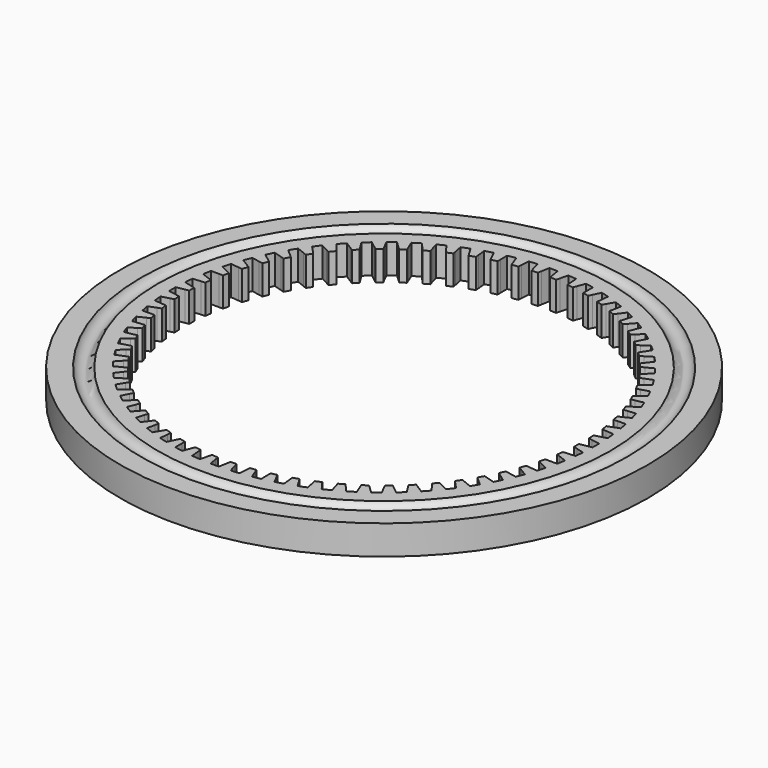
from build123d import *

# Parameters (mm, degrees)
F0_R     = 45
F1_DEPTH = 5
F2_W     = 3
F2_H     = 10
F2_R     = 1.5


with BuildPart() as f1:
    # F0 (on Top) → F1 (new body)
    with BuildSketch(Plane.XY):
        Circle(F0_R)
        with BuildLine():
            Line((0.701709, 36.093179), (0.942478, 34.727713))
            Line((0.942478, 34.727713), (1.056045, 34.083644))
            ThreePointArc((1.056045, 34.083644), (1.574856, 34.063614), (2.093302, 34.035688))
            Line((2.093302, 34.035688), (2.265812, 34.666532))
            Line((2.265812, 34.666532), (2.631543, 36.003958))
            ThreePointArc((2.631543, 36.003958), (3.330888, 35.946004), (4.028974, 35.874467))
            Line((4.028974, 35.874467), (4.142726, 34.49261))
            Line((4.142726, 34.49261), (4.196382, 33.840809))
            ThreePointArc((4.196382, 33.840809), (4.711132, 33.772996), (5.22479, 33.697353))
            Line((5.22479, 33.697353), (5.45477, 34.309588))
            Line((5.45477, 34.309588), (5.942343, 35.607563))
            ThreePointArc((5.942343, 35.607563), (6.633358, 35.485329), (7.321866, 35.349686))
            Line((7.321866, 35.349686), (7.307631, 33.963228))
            Line((7.307631, 33.963228), (7.300917, 33.309257))
            ThreePointArc((7.300917, 33.309257), (7.807214, 33.194238), (8.311701, 33.071523))
            Line((8.311701, 33.071523), (8.597191, 33.659927))
            Line((8.597191, 33.659927), (9.202445, 34.907377))
            ThreePointArc((9.202445, 34.907377), (9.879234, 34.721906), (10.552289, 34.523314))
            Line((10.552289, 34.523314), (10.410189, 33.144084))
            Line((10.410189, 33.144084), (10.343163, 32.493522))
            ThreePointArc((10.343163, 32.493522), (10.836687, 32.332278), (11.3277, 32.163539))
            Line((11.3277, 32.163539), (11.666263, 32.723091))
            Line((11.666263, 32.723091), (12.384036, 33.909374))
            ThreePointArc((12.384036, 33.909374), (13.040824, 33.662247), (13.692685, 33.402401))
            Line((13.692685, 33.402401), (13.423931, 32.042166))
            Line((13.423931, 32.042166), (13.297165, 31.400564))
            ThreePointArc((13.297165, 31.400564), (13.773706, 31.194471), (14.247055, 30.981146))
            Line((14.247055, 30.981146), (14.635802, 31.507073))
            Line((14.635802, 31.507073), (15.45997, 32.622068))
            ThreePointArc((15.45997, 32.622068), (16.091155, 32.315395), (16.716259, 31.996511))
            Line((16.716259, 31.996511), (16.323145, 30.666876))
            Line((16.323145, 30.666876), (16.13772, 30.039707))
            ThreePointArc((16.13772, 30.039707), (16.593213, 29.790524), (17.044859, 29.534434))
            Line((17.044859, 29.534434), (17.480474, 30.022248))
            Line((17.480474, 30.022248), (18.404005, 31.056442))
            ThreePointArc((18.404005, 31.056442), (19.004201, 30.692839), (19.597216, 30.317637))
            Line((19.597216, 30.317637), (19.083096, 29.029946))
            Line((19.083096, 29.029946), (18.840594, 28.422562))
            ThreePointArc((18.840594, 28.422562), (19.271152, 28.132414), (19.697242, 27.835744))
            Line((19.697242, 27.835744), (20.176009, 28.281283))
            Line((20.176009, 28.281283), (21.191024, 29.225853))
            ThreePointArc((21.191024, 29.225853), (21.75511, 28.808422), (22.310976, 28.380105))
            Line((22.310976, 28.380105), (21.680236, 27.145344))
            Line((21.680236, 27.145344), (21.382726, 26.562926))
            ThreePointArc((21.382726, 26.562926), (21.784676, 26.234288), (22.181576, 25.899569))
            Line((22.181576, 25.899569), (22.69941, 26.299033))
            Line((22.69941, 26.299033), (23.797248, 27.14592))
            ThreePointArc((23.797248, 27.14592), (24.320413, 26.678222), (24.834387, 26.200443))
            Line((24.834387, 26.200443), (24.092409, 25.029147))
            Line((24.092409, 25.029147), (23.742429, 24.476664))
            ThreePointArc((23.742429, 24.476664), (24.112341, 24.112341), (24.476664, 23.742429))
            Line((24.476664, 23.742429), (25.029147, 24.092409))
            Line((25.029147, 24.092409), (26.200443, 24.834387))
            ThreePointArc((26.200443, 24.834387), (26.678222, 24.320413), (27.14592, 23.797248))
            Line((27.14592, 23.797248), (26.299033, 22.69941))
            Line((26.299033, 22.69941), (25.899569, 22.181576))
            ThreePointArc((25.899569, 22.181576), (26.234288, 21.784676), (26.562926, 21.382726))
            Line((26.562926, 21.382726), (27.145344, 21.680236))
            Line((27.145344, 21.680236), (28.380105, 22.310976))
            ThreePointArc((28.380105, 22.310976), (28.808422, 21.75511), (29.225853, 21.191024))
            Line((29.225853, 21.191024), (28.281283, 20.176009))
            Line((28.281283, 20.176009), (27.835744, 19.697242))
            ThreePointArc((27.835744, 19.697242), (28.132414, 19.271152), (28.422562, 18.840594))
            Line((28.422562, 18.840594), (29.029946, 19.083096))
            Line((29.029946, 19.083096), (30.317637, 19.597216))
            ThreePointArc((30.317637, 19.597216), (30.692839, 19.004201), (31.056442, 18.404005))
            Line((31.056442, 18.404005), (30.022248, 17.480474))
            Line((30.022248, 17.480474), (29.534434, 17.044859))
            ThreePointArc((29.534434, 17.044859), (29.790524, 16.593213), (30.039707, 16.13772))
            Line((30.039707, 16.13772), (30.666876, 16.323145))
            Line((30.666876, 16.323145), (31.996511, 16.716259))
            ThreePointArc((31.996511, 16.716259), (32.315395, 16.091155), (32.622068, 15.45997))
            Line((32.622068, 15.45997), (31.507073, 14.635802))
            Line((31.507073, 14.635802), (30.981146, 14.247055))
            ThreePointArc((30.981146, 14.247055), (31.194471, 13.773706), (31.400564, 13.297165))
            Line((31.400564, 13.297165), (32.042166, 13.423931))
            Line((32.042166, 13.423931), (33.402401, 13.692685))
            ThreePointArc((33.402401, 13.692685), (33.662247, 13.040824), (33.909374, 12.384036))
            Line((33.909374, 12.384036), (32.723091, 11.666263))
            Line((32.723091, 11.666263), (32.163539, 11.3277))
            ThreePointArc((32.163539, 11.3277), (32.332278, 10.836687), (32.493522, 10.343163))
            Line((32.493522, 10.343163), (33.144084, 10.410189))
            Line((33.144084, 10.410189), (34.523314, 10.552289))
            ThreePointArc((34.523314, 10.552289), (34.721906, 9.879234), (34.907377, 9.202445))
            Line((34.907377, 9.202445), (33.659927, 8.597191))
            Line((33.659927, 8.597191), (33.071523, 8.311701))
            ThreePointArc((33.071523, 8.311701), (33.194238, 7.807214), (33.309257, 7.300917))
            Line((33.309257, 7.300917), (33.963228, 7.307631))
            Line((33.963228, 7.307631), (35.349686, 7.321866))
            ThreePointArc((35.349686, 7.321866), (35.485329, 6.633358), (35.607563, 5.942343))
            Line((35.607563, 5.942343), (34.309588, 5.45477))
            Line((34.309588, 5.45477), (33.697353, 5.22479))
            ThreePointArc((33.697353, 5.22479), (33.772996, 4.711132), (33.840809, 4.196382))
            Line((33.840809, 4.196382), (34.49261, 4.142726))
            Line((34.49261, 4.142726), (35.874467, 4.028974))
            ThreePointArc((35.874467, 4.028974), (35.946004, 3.330888), (36.003958, 2.631543))
            Line((36.003958, 2.631543), (34.666532, 2.265812))
            Line((34.666532, 2.265812), (34.035688, 2.093302))
            ThreePointArc((34.035688, 2.093302), (34.063614, 1.574856), (34.083644, 1.056045))
            Line((34.083644, 1.056045), (34.727713, 0.942478))
            Line((34.727713, 0.942478), (36.093179, 0.701709))
            ThreePointArc((36.093179, 0.701709), (36.1, 0), (36.093179, -0.701709))
            Line((36.093179, -0.701709), (34.727713, -0.942478))
            Line((34.727713, -0.942478), (34.083644, -1.056045))
            ThreePointArc((34.083644, -1.056045), (34.063614, -1.574856), (34.035688, -2.093302))
            Line((34.035688, -2.093302), (34.666532, -2.265812))
            Line((34.666532, -2.265812), (36.003958, -2.631543))
            ThreePointArc((36.003958, -2.631543), (35.946004, -3.330888), (35.874467, -4.028974))
            Line((35.874467, -4.028974), (34.49261, -4.142726))
            Line((34.49261, -4.142726), (33.840809, -4.196382))
            ThreePointArc((33.840809, -4.196382), (33.772996, -4.711132), (33.697353, -5.22479))
            Line((33.697353, -5.22479), (34.309588, -5.45477))
            Line((34.309588, -5.45477), (35.607563, -5.942343))
            ThreePointArc((35.607563, -5.942343), (35.485329, -6.633358), (35.349686, -7.321866))
            Line((35.349686, -7.321866), (33.963228, -7.307631))
            Line((33.963228, -7.307631), (33.309257, -7.300917))
            ThreePointArc((33.309257, -7.300917), (33.194238, -7.807214), (33.071523, -8.311701))
            Line((33.071523, -8.311701), (33.659927, -8.597191))
            Line((33.659927, -8.597191), (34.907377, -9.202445))
            ThreePointArc((34.907377, -9.202445), (34.721906, -9.879234), (34.523314, -10.552289))
            Line((34.523314, -10.552289), (33.144084, -10.410189))
            Line((33.144084, -10.410189), (32.493522, -10.343163))
            ThreePointArc((32.493522, -10.343163), (32.332278, -10.836687), (32.163539, -11.3277))
            Line((32.163539, -11.3277), (32.723091, -11.666263))
            Line((32.723091, -11.666263), (33.909374, -12.384036))
            ThreePointArc((33.909374, -12.384036), (33.662247, -13.040824), (33.402401, -13.692685))
            Line((33.402401, -13.692685), (32.042166, -13.423931))
            Line((32.042166, -13.423931), (31.400564, -13.297165))
            ThreePointArc((31.400564, -13.297165), (31.194471, -13.773706), (30.981146, -14.247055))
            Line((30.981146, -14.247055), (31.507073, -14.635802))
            Line((31.507073, -14.635802), (32.622068, -15.45997))
            ThreePointArc((32.622068, -15.45997), (32.315395, -16.091155), (31.996511, -16.716259))
            Line((31.996511, -16.716259), (30.666876, -16.323145))
            Line((30.666876, -16.323145), (30.039707, -16.13772))
            ThreePointArc((30.039707, -16.13772), (29.790524, -16.593213), (29.534434, -17.044859))
            Line((29.534434, -17.044859), (30.022248, -17.480474))
            Line((30.022248, -17.480474), (31.056442, -18.404005))
            ThreePointArc((31.056442, -18.404005), (30.692839, -19.004201), (30.317637, -19.597216))
            Line((30.317637, -19.597216), (29.029946, -19.083096))
            Line((29.029946, -19.083096), (28.422562, -18.840594))
            ThreePointArc((28.422562, -18.840594), (28.132414, -19.271152), (27.835744, -19.697242))
            Line((27.835744, -19.697242), (28.281283, -20.176009))
            Line((28.281283, -20.176009), (29.225853, -21.191024))
            ThreePointArc((29.225853, -21.191024), (28.808422, -21.75511), (28.380105, -22.310976))
            Line((28.380105, -22.310976), (27.145344, -21.680236))
            Line((27.145344, -21.680236), (26.562926, -21.382726))
            ThreePointArc((26.562926, -21.382726), (26.234288, -21.784676), (25.899569, -22.181576))
            Line((25.899569, -22.181576), (26.299033, -22.69941))
            Line((26.299033, -22.69941), (27.14592, -23.797248))
            ThreePointArc((27.14592, -23.797248), (26.678222, -24.320413), (26.200443, -24.834387))
            Line((26.200443, -24.834387), (25.029147, -24.092409))
            Line((25.029147, -24.092409), (24.476664, -23.742429))
            ThreePointArc((24.476664, -23.742429), (24.112341, -24.112341), (23.742429, -24.476664))
            Line((23.742429, -24.476664), (24.092409, -25.029147))
            Line((24.092409, -25.029147), (24.834387, -26.200443))
            ThreePointArc((24.834387, -26.200443), (24.320413, -26.678222), (23.797248, -27.14592))
            Line((23.797248, -27.14592), (22.69941, -26.299033))
            Line((22.69941, -26.299033), (22.181576, -25.899569))
            ThreePointArc((22.181576, -25.899569), (21.784676, -26.234288), (21.382726, -26.562926))
            Line((21.382726, -26.562926), (21.680236, -27.145344))
            Line((21.680236, -27.145344), (22.310976, -28.380105))
            ThreePointArc((22.310976, -28.380105), (21.75511, -28.808422), (21.191024, -29.225853))
            Line((21.191024, -29.225853), (20.176009, -28.281283))
            Line((20.176009, -28.281283), (19.697242, -27.835744))
            ThreePointArc((19.697242, -27.835744), (19.271152, -28.132414), (18.840594, -28.422562))
            Line((18.840594, -28.422562), (19.083096, -29.029946))
            Line((19.083096, -29.029946), (19.597216, -30.317637))
            ThreePointArc((19.597216, -30.317637), (19.004201, -30.692839), (18.404005, -31.056442))
            Line((18.404005, -31.056442), (17.480474, -30.022248))
            Line((17.480474, -30.022248), (17.044859, -29.534434))
            ThreePointArc((17.044859, -29.534434), (16.593213, -29.790524), (16.13772, -30.039707))
            Line((16.13772, -30.039707), (16.323145, -30.666876))
            Line((16.323145, -30.666876), (16.716259, -31.996511))
            ThreePointArc((16.716259, -31.996511), (16.091155, -32.315395), (15.45997, -32.622068))
            Line((15.45997, -32.622068), (14.635802, -31.507073))
            Line((14.635802, -31.507073), (14.247055, -30.981146))
            ThreePointArc((14.247055, -30.981146), (13.773706, -31.194471), (13.297165, -31.400564))
            Line((13.297165, -31.400564), (13.423931, -32.042166))
            Line((13.423931, -32.042166), (13.692685, -33.402401))
            ThreePointArc((13.692685, -33.402401), (13.040824, -33.662247), (12.384036, -33.909374))
            Line((12.384036, -33.909374), (11.666263, -32.723091))
            Line((11.666263, -32.723091), (11.3277, -32.163539))
            ThreePointArc((11.3277, -32.163539), (10.836687, -32.332278), (10.343163, -32.493522))
            Line((10.343163, -32.493522), (10.410189, -33.144084))
            Line((10.410189, -33.144084), (10.552289, -34.523314))
            ThreePointArc((10.552289, -34.523314), (9.879234, -34.721906), (9.202445, -34.907377))
            Line((9.202445, -34.907377), (8.597191, -33.659927))
            Line((8.597191, -33.659927), (8.311701, -33.071523))
            ThreePointArc((8.311701, -33.071523), (7.807214, -33.194238), (7.300917, -33.309257))
            Line((7.300917, -33.309257), (7.307631, -33.963228))
            Line((7.307631, -33.963228), (7.321866, -35.349686))
            ThreePointArc((7.321866, -35.349686), (6.633358, -35.485329), (5.942343, -35.607563))
            Line((5.942343, -35.607563), (5.45477, -34.309588))
            Line((5.45477, -34.309588), (5.22479, -33.697353))
            ThreePointArc((5.22479, -33.697353), (4.711132, -33.772996), (4.196382, -33.840809))
            Line((4.196382, -33.840809), (4.142726, -34.49261))
            Line((4.142726, -34.49261), (4.028974, -35.874467))
            ThreePointArc((4.028974, -35.874467), (3.330888, -35.946004), (2.631543, -36.003958))
            Line((2.631543, -36.003958), (2.265812, -34.666532))
            Line((2.265812, -34.666532), (2.093302, -34.035688))
            ThreePointArc((2.093302, -34.035688), (1.574856, -34.063614), (1.056045, -34.083644))
            Line((1.056045, -34.083644), (0.942478, -34.727713))
            Line((0.942478, -34.727713), (0.701709, -36.093179))
            ThreePointArc((0.701709, -36.093179), (0, -36.1), (-0.701709, -36.093179))
            Line((-0.701709, -36.093179), (-0.942478, -34.727713))
            Line((-0.942478, -34.727713), (-1.056045, -34.083644))
            ThreePointArc((-1.056045, -34.083644), (-1.574856, -34.063614), (-2.093302, -34.035688))
            Line((-2.093302, -34.035688), (-2.265812, -34.666532))
            Line((-2.265812, -34.666532), (-2.631543, -36.003958))
            ThreePointArc((-2.631543, -36.003958), (-3.330888, -35.946004), (-4.028974, -35.874467))
            Line((-4.028974, -35.874467), (-4.142726, -34.49261))
            Line((-4.142726, -34.49261), (-4.196382, -33.840809))
            ThreePointArc((-4.196382, -33.840809), (-4.711132, -33.772996), (-5.22479, -33.697353))
            Line((-5.22479, -33.697353), (-5.45477, -34.309588))
            Line((-5.45477, -34.309588), (-5.942343, -35.607563))
            ThreePointArc((-5.942343, -35.607563), (-6.633358, -35.485329), (-7.321866, -35.349686))
            Line((-7.321866, -35.349686), (-7.307631, -33.963228))
            Line((-7.307631, -33.963228), (-7.300917, -33.309257))
            ThreePointArc((-7.300917, -33.309257), (-7.807214, -33.194238), (-8.311701, -33.071523))
            Line((-8.311701, -33.071523), (-8.597191, -33.659927))
            Line((-8.597191, -33.659927), (-9.202445, -34.907377))
            ThreePointArc((-9.202445, -34.907377), (-9.879234, -34.721906), (-10.552289, -34.523314))
            Line((-10.552289, -34.523314), (-10.410189, -33.144084))
            Line((-10.410189, -33.144084), (-10.343163, -32.493522))
            ThreePointArc((-10.343163, -32.493522), (-10.836687, -32.332278), (-11.3277, -32.163539))
            Line((-11.3277, -32.163539), (-11.666263, -32.723091))
            Line((-11.666263, -32.723091), (-12.384036, -33.909374))
            ThreePointArc((-12.384036, -33.909374), (-13.040824, -33.662247), (-13.692685, -33.402401))
            Line((-13.692685, -33.402401), (-13.423931, -32.042166))
            Line((-13.423931, -32.042166), (-13.297165, -31.400564))
            ThreePointArc((-13.297165, -31.400564), (-13.773706, -31.194471), (-14.247055, -30.981146))
            Line((-14.247055, -30.981146), (-14.635802, -31.507073))
            Line((-14.635802, -31.507073), (-15.45997, -32.622068))
            ThreePointArc((-15.45997, -32.622068), (-16.091155, -32.315395), (-16.716259, -31.996511))
            Line((-16.716259, -31.996511), (-16.323145, -30.666876))
            Line((-16.323145, -30.666876), (-16.13772, -30.039707))
            ThreePointArc((-16.13772, -30.039707), (-16.593213, -29.790524), (-17.044859, -29.534434))
            Line((-17.044859, -29.534434), (-17.480474, -30.022248))
            Line((-17.480474, -30.022248), (-18.404005, -31.056442))
            ThreePointArc((-18.404005, -31.056442), (-19.004201, -30.692839), (-19.597216, -30.317637))
            Line((-19.597216, -30.317637), (-19.083096, -29.029946))
            Line((-19.083096, -29.029946), (-18.840594, -28.422562))
            ThreePointArc((-18.840594, -28.422562), (-19.271152, -28.132414), (-19.697242, -27.835744))
            Line((-19.697242, -27.835744), (-20.176009, -28.281283))
            Line((-20.176009, -28.281283), (-21.191024, -29.225853))
            ThreePointArc((-21.191024, -29.225853), (-21.75511, -28.808422), (-22.310976, -28.380105))
            Line((-22.310976, -28.380105), (-21.680236, -27.145344))
            Line((-21.680236, -27.145344), (-21.382726, -26.562926))
            ThreePointArc((-21.382726, -26.562926), (-21.784676, -26.234288), (-22.181576, -25.899569))
            Line((-22.181576, -25.899569), (-22.69941, -26.299033))
            Line((-22.69941, -26.299033), (-23.797248, -27.14592))
            ThreePointArc((-23.797248, -27.14592), (-24.320413, -26.678222), (-24.834387, -26.200443))
            Line((-24.834387, -26.200443), (-24.092409, -25.029147))
            Line((-24.092409, -25.029147), (-23.742429, -24.476664))
            ThreePointArc((-23.742429, -24.476664), (-24.112341, -24.112341), (-24.476664, -23.742429))
            Line((-24.476664, -23.742429), (-25.029147, -24.092409))
            Line((-25.029147, -24.092409), (-26.200443, -24.834387))
            ThreePointArc((-26.200443, -24.834387), (-26.678222, -24.320413), (-27.14592, -23.797248))
            Line((-27.14592, -23.797248), (-26.299033, -22.69941))
            Line((-26.299033, -22.69941), (-25.899569, -22.181576))
            ThreePointArc((-25.899569, -22.181576), (-26.234288, -21.784676), (-26.562926, -21.382726))
            Line((-26.562926, -21.382726), (-27.145344, -21.680236))
            Line((-27.145344, -21.680236), (-28.380105, -22.310976))
            ThreePointArc((-28.380105, -22.310976), (-28.808422, -21.75511), (-29.225853, -21.191024))
            Line((-29.225853, -21.191024), (-28.281283, -20.176009))
            Line((-28.281283, -20.176009), (-27.835744, -19.697242))
            ThreePointArc((-27.835744, -19.697242), (-28.132414, -19.271152), (-28.422562, -18.840594))
            Line((-28.422562, -18.840594), (-29.029946, -19.083096))
            Line((-29.029946, -19.083096), (-30.317637, -19.597216))
            ThreePointArc((-30.317637, -19.597216), (-30.692839, -19.004201), (-31.056442, -18.404005))
            Line((-31.056442, -18.404005), (-30.022248, -17.480474))
            Line((-30.022248, -17.480474), (-29.534434, -17.044859))
            ThreePointArc((-29.534434, -17.044859), (-29.790524, -16.593213), (-30.039707, -16.13772))
            Line((-30.039707, -16.13772), (-30.666876, -16.323145))
            Line((-30.666876, -16.323145), (-31.996511, -16.716259))
            ThreePointArc((-31.996511, -16.716259), (-32.315395, -16.091155), (-32.622068, -15.45997))
            Line((-32.622068, -15.45997), (-31.507073, -14.635802))
            Line((-31.507073, -14.635802), (-30.981146, -14.247055))
            ThreePointArc((-30.981146, -14.247055), (-31.194471, -13.773706), (-31.400564, -13.297165))
            Line((-31.400564, -13.297165), (-32.042166, -13.423931))
            Line((-32.042166, -13.423931), (-33.402401, -13.692685))
            ThreePointArc((-33.402401, -13.692685), (-33.662247, -13.040824), (-33.909374, -12.384036))
            Line((-33.909374, -12.384036), (-32.723091, -11.666263))
            Line((-32.723091, -11.666263), (-32.163539, -11.3277))
            ThreePointArc((-32.163539, -11.3277), (-32.332278, -10.836687), (-32.493522, -10.343163))
            Line((-32.493522, -10.343163), (-33.144084, -10.410189))
            Line((-33.144084, -10.410189), (-34.523314, -10.552289))
            ThreePointArc((-34.523314, -10.552289), (-34.721906, -9.879234), (-34.907377, -9.202445))
            Line((-34.907377, -9.202445), (-33.659927, -8.597191))
            Line((-33.659927, -8.597191), (-33.071523, -8.311701))
            ThreePointArc((-33.071523, -8.311701), (-33.194238, -7.807214), (-33.309257, -7.300917))
            Line((-33.309257, -7.300917), (-33.963228, -7.307631))
            Line((-33.963228, -7.307631), (-35.349686, -7.321866))
            ThreePointArc((-35.349686, -7.321866), (-35.485329, -6.633358), (-35.607563, -5.942343))
            Line((-35.607563, -5.942343), (-34.309588, -5.45477))
            Line((-34.309588, -5.45477), (-33.697353, -5.22479))
            ThreePointArc((-33.697353, -5.22479), (-33.772996, -4.711132), (-33.840809, -4.196382))
            Line((-33.840809, -4.196382), (-34.49261, -4.142726))
            Line((-34.49261, -4.142726), (-35.874467, -4.028974))
            ThreePointArc((-35.874467, -4.028974), (-35.946004, -3.330888), (-36.003958, -2.631543))
            Line((-36.003958, -2.631543), (-34.666532, -2.265812))
            Line((-34.666532, -2.265812), (-34.035688, -2.093302))
            ThreePointArc((-34.035688, -2.093302), (-34.063614, -1.574856), (-34.083644, -1.056045))
            Line((-34.083644, -1.056045), (-34.727713, -0.942478))
            Line((-34.727713, -0.942478), (-36.093179, -0.701709))
            ThreePointArc((-36.093179, -0.701709), (-36.1, 0), (-36.093179, 0.701709))
            Line((-36.093179, 0.701709), (-34.727713, 0.942478))
            Line((-34.727713, 0.942478), (-34.083644, 1.056045))
            ThreePointArc((-34.083644, 1.056045), (-34.063614, 1.574856), (-34.035688, 2.093302))
            Line((-34.035688, 2.093302), (-34.666532, 2.265812))
            Line((-34.666532, 2.265812), (-36.003958, 2.631543))
            ThreePointArc((-36.003958, 2.631543), (-35.946004, 3.330888), (-35.874467, 4.028974))
            Line((-35.874467, 4.028974), (-34.49261, 4.142726))
            Line((-34.49261, 4.142726), (-33.840809, 4.196382))
            ThreePointArc((-33.840809, 4.196382), (-33.772996, 4.711132), (-33.697353, 5.22479))
            Line((-33.697353, 5.22479), (-34.309588, 5.45477))
            Line((-34.309588, 5.45477), (-35.607563, 5.942343))
            ThreePointArc((-35.607563, 5.942343), (-35.485329, 6.633358), (-35.349686, 7.321866))
            Line((-35.349686, 7.321866), (-33.963228, 7.307631))
            Line((-33.963228, 7.307631), (-33.309257, 7.300917))
            ThreePointArc((-33.309257, 7.300917), (-33.194238, 7.807214), (-33.071523, 8.311701))
            Line((-33.071523, 8.311701), (-33.659927, 8.597191))
            Line((-33.659927, 8.597191), (-34.907377, 9.202445))
            ThreePointArc((-34.907377, 9.202445), (-34.721906, 9.879234), (-34.523314, 10.552289))
            Line((-34.523314, 10.552289), (-33.144084, 10.410189))
            Line((-33.144084, 10.410189), (-32.493522, 10.343163))
            ThreePointArc((-32.493522, 10.343163), (-32.332278, 10.836687), (-32.163539, 11.3277))
            Line((-32.163539, 11.3277), (-32.723091, 11.666263))
            Line((-32.723091, 11.666263), (-33.909374, 12.384036))
            ThreePointArc((-33.909374, 12.384036), (-33.662247, 13.040824), (-33.402401, 13.692685))
            Line((-33.402401, 13.692685), (-32.042166, 13.423931))
            Line((-32.042166, 13.423931), (-31.400564, 13.297165))
            ThreePointArc((-31.400564, 13.297165), (-31.194471, 13.773706), (-30.981146, 14.247055))
            Line((-30.981146, 14.247055), (-31.507073, 14.635802))
            Line((-31.507073, 14.635802), (-32.622068, 15.45997))
            ThreePointArc((-32.622068, 15.45997), (-32.315395, 16.091155), (-31.996511, 16.716259))
            Line((-31.996511, 16.716259), (-30.666876, 16.323145))
            Line((-30.666876, 16.323145), (-30.039707, 16.13772))
            ThreePointArc((-30.039707, 16.13772), (-29.790524, 16.593213), (-29.534434, 17.044859))
            Line((-29.534434, 17.044859), (-30.022248, 17.480474))
            Line((-30.022248, 17.480474), (-31.056442, 18.404005))
            ThreePointArc((-31.056442, 18.404005), (-30.692839, 19.004201), (-30.317637, 19.597216))
            Line((-30.317637, 19.597216), (-29.029946, 19.083096))
            Line((-29.029946, 19.083096), (-28.422562, 18.840594))
            ThreePointArc((-28.422562, 18.840594), (-28.132414, 19.271152), (-27.835744, 19.697242))
            Line((-27.835744, 19.697242), (-28.281283, 20.176009))
            Line((-28.281283, 20.176009), (-29.225853, 21.191024))
            ThreePointArc((-29.225853, 21.191024), (-28.808422, 21.75511), (-28.380105, 22.310976))
            Line((-28.380105, 22.310976), (-27.145344, 21.680236))
            Line((-27.145344, 21.680236), (-26.562926, 21.382726))
            ThreePointArc((-26.562926, 21.382726), (-26.234288, 21.784676), (-25.899569, 22.181576))
            Line((-25.899569, 22.181576), (-26.299033, 22.69941))
            Line((-26.299033, 22.69941), (-27.14592, 23.797248))
            ThreePointArc((-27.14592, 23.797248), (-26.678222, 24.320413), (-26.200443, 24.834387))
            Line((-26.200443, 24.834387), (-25.029147, 24.092409))
            Line((-25.029147, 24.092409), (-24.476664, 23.742429))
            ThreePointArc((-24.476664, 23.742429), (-24.112341, 24.112341), (-23.742429, 24.476664))
            Line((-23.742429, 24.476664), (-24.092409, 25.029147))
            Line((-24.092409, 25.029147), (-24.834387, 26.200443))
            ThreePointArc((-24.834387, 26.200443), (-24.320413, 26.678222), (-23.797248, 27.14592))
            Line((-23.797248, 27.14592), (-22.69941, 26.299033))
            Line((-22.69941, 26.299033), (-22.181576, 25.899569))
            ThreePointArc((-22.181576, 25.899569), (-21.784676, 26.234288), (-21.382726, 26.562926))
            Line((-21.382726, 26.562926), (-21.680236, 27.145344))
            Line((-21.680236, 27.145344), (-22.310976, 28.380105))
            ThreePointArc((-22.310976, 28.380105), (-21.75511, 28.808422), (-21.191024, 29.225853))
            Line((-21.191024, 29.225853), (-20.176009, 28.281283))
            Line((-20.176009, 28.281283), (-19.697242, 27.835744))
            ThreePointArc((-19.697242, 27.835744), (-19.271152, 28.132414), (-18.840594, 28.422562))
            Line((-18.840594, 28.422562), (-19.083096, 29.029946))
            Line((-19.083096, 29.029946), (-19.597216, 30.317637))
            ThreePointArc((-19.597216, 30.317637), (-19.004201, 30.692839), (-18.404005, 31.056442))
            Line((-18.404005, 31.056442), (-17.480474, 30.022248))
            Line((-17.480474, 30.022248), (-17.044859, 29.534434))
            ThreePointArc((-17.044859, 29.534434), (-16.593213, 29.790524), (-16.13772, 30.039707))
            Line((-16.13772, 30.039707), (-16.323145, 30.666876))
            Line((-16.323145, 30.666876), (-16.716259, 31.996511))
            ThreePointArc((-16.716259, 31.996511), (-16.091155, 32.315395), (-15.45997, 32.622068))
            Line((-15.45997, 32.622068), (-14.635802, 31.507073))
            Line((-14.635802, 31.507073), (-14.247055, 30.981146))
            ThreePointArc((-14.247055, 30.981146), (-13.773706, 31.194471), (-13.297165, 31.400564))
            Line((-13.297165, 31.400564), (-13.423931, 32.042166))
            Line((-13.423931, 32.042166), (-13.692685, 33.402401))
            ThreePointArc((-13.692685, 33.402401), (-13.040824, 33.662247), (-12.384036, 33.909374))
            Line((-12.384036, 33.909374), (-11.666263, 32.723091))
            Line((-11.666263, 32.723091), (-11.3277, 32.163539))
            ThreePointArc((-11.3277, 32.163539), (-10.836687, 32.332278), (-10.343163, 32.493522))
            Line((-10.343163, 32.493522), (-10.410189, 33.144084))
            Line((-10.410189, 33.144084), (-10.552289, 34.523314))
            ThreePointArc((-10.552289, 34.523314), (-9.879234, 34.721906), (-9.202445, 34.907377))
            Line((-9.202445, 34.907377), (-8.597191, 33.659927))
            Line((-8.597191, 33.659927), (-8.311701, 33.071523))
            ThreePointArc((-8.311701, 33.071523), (-7.807214, 33.194238), (-7.300917, 33.309257))
            Line((-7.300917, 33.309257), (-7.307631, 33.963228))
            Line((-7.307631, 33.963228), (-7.321866, 35.349686))
            ThreePointArc((-7.321866, 35.349686), (-6.633358, 35.485329), (-5.942343, 35.607563))
            Line((-5.942343, 35.607563), (-5.45477, 34.309588))
            Line((-5.45477, 34.309588), (-5.22479, 33.697353))
            ThreePointArc((-5.22479, 33.697353), (-4.711132, 33.772996), (-4.196382, 33.840809))
            Line((-4.196382, 33.840809), (-4.142726, 34.49261))
            Line((-4.142726, 34.49261), (-4.028974, 35.874467))
            ThreePointArc((-4.028974, 35.874467), (-3.330888, 35.946004), (-2.631543, 36.003958))
            Line((-2.631543, 36.003958), (-2.265812, 34.666532))
            Line((-2.265812, 34.666532), (-2.093302, 34.035688))
            ThreePointArc((-2.093302, 34.035688), (-1.574856, 34.063614), (-1.056045, 34.083644))
            Line((-1.056045, 34.083644), (-0.942478, 34.727713))
            Line((-0.942478, 34.727713), (-0.701709, 36.093179))
            ThreePointArc((-0.701709, 36.093179), (0, 36.1), (0.701709, 36.093179))
        make_face(mode=Mode.SUBTRACT)
    extrude(amount=F1_DEPTH)

    # F2 (on Front) → F3 (revolve, cut)
    with BuildSketch(Plane.XZ):
        with Locations((-43.5, 10)):
            Rectangle(F2_W, F2_H)
        with Locations((-43.5, -5)):
            Rectangle(F2_W, F2_H)
        with Locations((-40, 5.5)):
            Circle(F2_R)
        with Locations((-40, -0.5)):
            Circle(F2_R)
    revolve(axis=Axis((0, 0, 5), (0, 0, 1)), mode=Mode.SUBTRACT)


solid = f1.part
